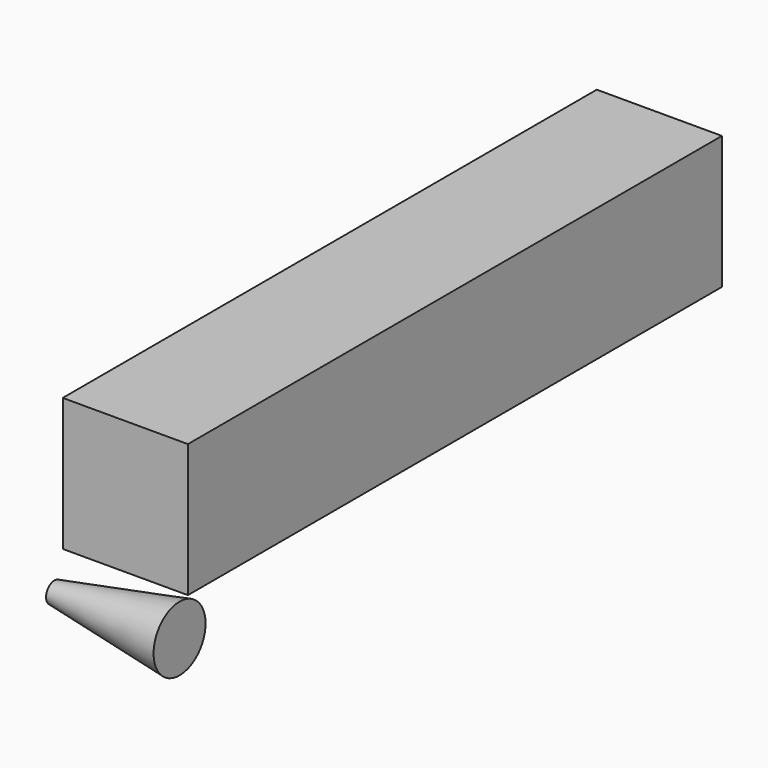
from build123d import *

# Parameters (mm, degrees)
F3_W     = 101.6
F3_H     = 20.240625
F4_DEPTH = 19.05


with BuildPart() as f4:
    # F3 (on Right) → F4 (new body)
    with BuildSketch(Plane.YZ):
        with Locations((50.8, 15.279687)):
            Rectangle(F3_W, F3_H)
    extrude(amount=F4_DEPTH)


with BuildPart() as f6:
    # F5 (on Top) → F6 (revolve)
    with BuildSketch(Plane.XY):
        Polygon((19.05, 3.359029), (0, 0), (0, -1.5875), (19.05, -1.5875), align=None)
    revolve(axis=Axis((9.525, -1.5875, 0), (-1, 0, 0)))


solid = Compound([f4.part, f6.part])
